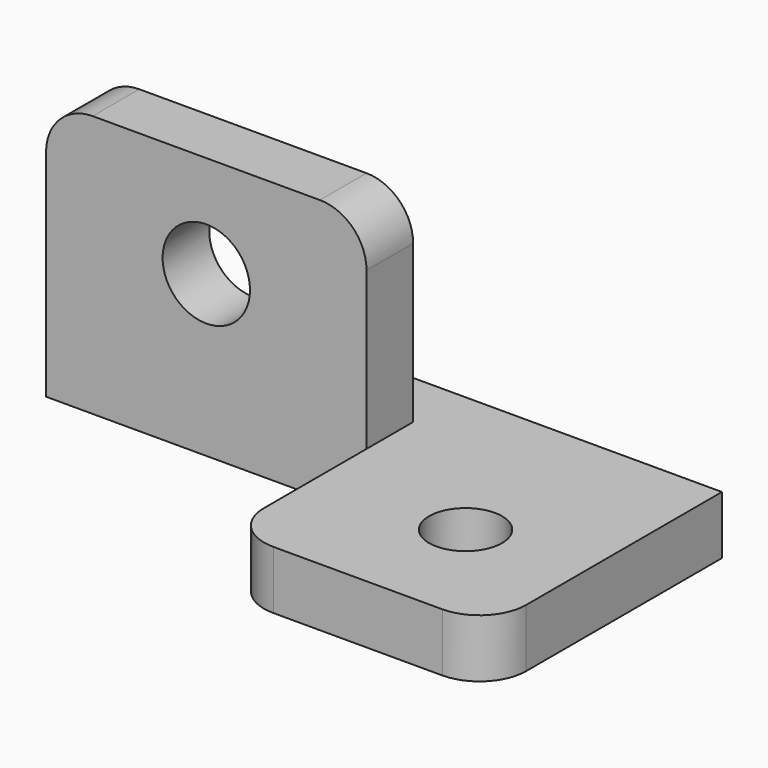
from build123d import *

# Parameters (mm, degrees)
F0_R     = 3.9751
F1_DEPTH = 3.175
F2_W     = 34.925
F2_H     = 22.225
F2_R     = 4.7625
F3_DEPTH = 6.35
F4_R     = 5.08


with BuildPart() as f1:
    # F0 (on Top) → F1 (new body, symmetric)
    with BuildSketch(Plane.XY):
        Polygon((0, 19.05), (0, 0), (28.575, 0), (28.575, 31.75), (-34.925, 31.75), (-34.925, 19.05), align=None)
        with Locations((15.875, 12.7)):
            Circle(F0_R, mode=Mode.SUBTRACT)
    extrude(amount=F1_DEPTH, both=True)

    # F2 (on face) → F3 (join)
    with BuildSketch(Plane.XZ.offset(-19.05)):
        with Locations((-17.4625, 14.2875)):
            Rectangle(F2_W, F2_H)
        with Locations((-17.4625, 14.2875)):
            Circle(F2_R, mode=Mode.SUBTRACT)
    extrude(amount=-F3_DEPTH)

    # F4
    f4_edges = [f1.edges().sort_by_distance(p)[0] for p in [
        (-34.925, 22.225, 25.4),
        (0, 22.225, 25.4),
        (0, 0, 0),
        (28.575, 0, 0),
    ]]
    fillet(f4_edges, radius=F4_R)


solid = f1.part
